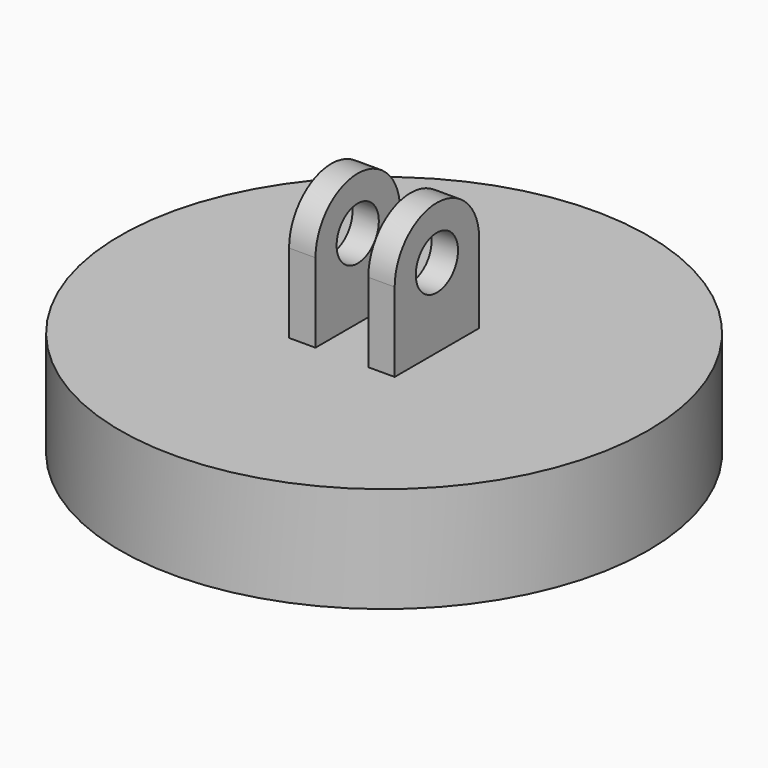
from build123d import *

# Parameters (mm, degrees)
F0_W     = 127
F0_H     = 50.8
F3_DEPTH = 25.4
F4_W     = 25.4
F4_H     = 101.6
F5_DEPTH = 152.401
F6_R     = 12.7
F7_DEPTH = 152.401


with BuildPart() as f1:
    # F0 (on Front) → F1 (revolve)
    with BuildSketch(Plane.XZ):
        with Locations((63.5, 25.4)):
            Rectangle(F0_W, F0_H)
    revolve(axis=Axis((0, 0, 25.4), (0, 0, 1)))

    # F2 (on Right) → F3 (join, symmetric)
    with BuildSketch(Plane.YZ):
        with BuildLine():
            Line((-25.4, 88.9), (-25.4, 50.8))
            Line((-25.4, 50.8), (25.4, 50.8))
            Line((25.4, 50.8), (25.4, 88.9))
            ThreePointArc((25.4, 88.9), (0, 114.3), (-25.4, 88.9))
        make_face()
    extrude(amount=F3_DEPTH, both=True)

    # F4 (on face) → F5 (cut, through all)
    with BuildSketch(Plane(origin=(0, 25.4, 0), x_dir=(-1, 0, 0), z_dir=(0, 1, 0))):
        with Locations((0, 101.6)):
            Rectangle(F4_W, F4_H)
    extrude(amount=-F5_DEPTH, mode=Mode.SUBTRACT)

    # F6 (on face) → F7 (cut, through all)
    with BuildSketch(Plane.YZ.offset(25.4)):
        with Locations((0, 88.9)):
            Circle(F6_R)
    extrude(amount=-F7_DEPTH, mode=Mode.SUBTRACT)


solid = f1.part
